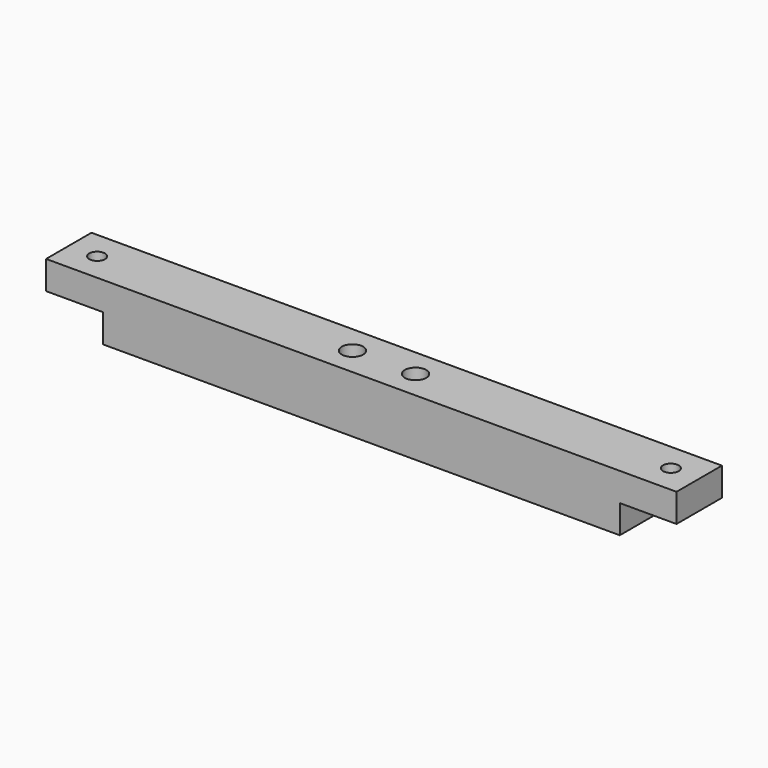
from build123d import *

# Parameters (mm, degrees)
F0_W     = 18
F0_H     = 18
F1_DEPTH = 100
F3_D     = 6.8
F5_D     = 3.3
F5_DEPTH = 8
F5_TIP   = 0.9914200214
F8_D     = 5
F8_DEPTH = 18
F8_TIP   = 1.5021515476
F7_W     = 18
F7_H     = 18
F9_DEPTH = 9


with BuildPart() as f1:
    # F0 (on Right) → F1 (new body, symmetric)
    with BuildSketch(Plane.YZ):
        with Locations((-3.1000529416, 1.3550933172)):
            Rectangle(F0_W, F0_H)
    extrude(amount=F1_DEPTH, both=True)

    # F3 (through all)
    with Locations(Plane.XY.offset(10.3550933172)):
        with Locations((-10, -3.1000529416), (10, -3.1000529416)):
            Hole(F3_D / 2)

    # F5
    with Locations(Plane(origin=(0, 5.8999470584, 0), x_dir=(-1, 0, 0), z_dir=(0, 1, 0))):
        with Locations((-10, 2.3550933172), (10, 2.3550933172)):
            Hole(F5_D / 2, depth=F5_DEPTH)
            with Locations((0, 0, -(F5_DEPTH + F5_TIP / 2))):  # 118° drill point
                Cone(0, F5_D / 2, F5_TIP, mode=Mode.SUBTRACT)

    # F8
    with Locations(Plane(origin=(0, 0, -7.6449066828), x_dir=(1, 0, 0), z_dir=(0, 0, -1))):
        with Locations((91, 3.1000529416), (-91, 3.1000529416)):
            Hole(F8_D / 2, depth=F8_DEPTH)
            with Locations((0, 0, -(F8_DEPTH + F8_TIP / 2))):  # 118° drill point
                Cone(0, F8_D / 2, F8_TIP, mode=Mode.SUBTRACT)

    # F7 (on face) → F9 (cut)
    with BuildSketch(Plane(origin=(0, 0, -7.6449066828), x_dir=(1, 0, 0), z_dir=(0, 0, -1))):
        with Locations((-91, 3.1000529416)):
            Rectangle(F7_W, F7_H)
        with Locations((91, 3.1000529416)):
            Rectangle(F7_W, F7_H)
    extrude(amount=-F9_DEPTH, mode=Mode.SUBTRACT)


solid = f1.part
